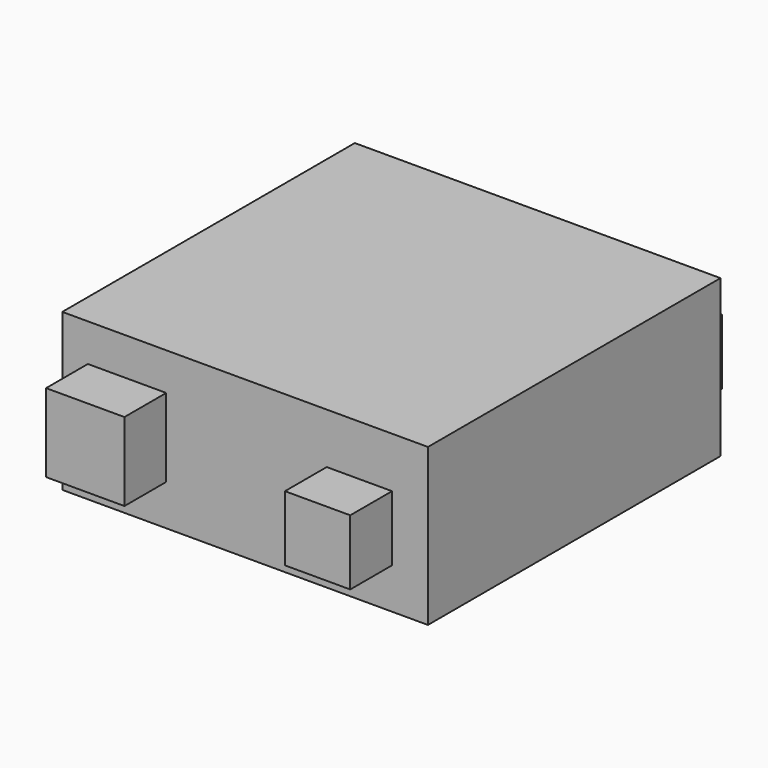
from build123d import *

# Parameters (mm, degrees)
F0_W     = 28
F0_H     = 28
F1_DEPTH = 24
F2_W     = 10
F2_H     = 10
F2_W_2   = 12
F2_H_2   = 12
F3_DEPTH = 8
F4_W     = 12
F4_H     = 12
F4_W_2   = 10
F4_H_2   = 10
F5_DEPTH = 8


with BuildPart() as f1:
    # F0 (on Top) → F1 (new body)
    with BuildSketch(Plane.XY):
        with Locations((-14, -14)):
            Rectangle(F0_W, F0_H)
        with Locations((14, -14)):
            Rectangle(F0_W, F0_H)
        with Locations((14, 14)):
            Rectangle(F0_W, F0_H)
        with Locations((-14, 14)):
            Rectangle(F0_W, F0_H)
    extrude(amount=F1_DEPTH)

    # F2 (on face) → F3 (join)
    with BuildSketch(Plane(origin=(0, 28, 0), x_dir=(-1, 0, 0), z_dir=(0, 1, 0))):
        with Locations((-16.822546, 8.821471)):
            Rectangle(F2_W, F2_H)
        with Locations((16.008998, 9.988178)):
            Rectangle(F2_W_2, F2_H_2)
    extrude(amount=F3_DEPTH)

    # F4 (on face) → F5 (join)
    with BuildSketch(Plane.XZ.offset(28)):
        with Locations((-18.081427, 12.249541)):
            Rectangle(F4_W, F4_H)
        with Locations((17.498491, 11.249541)):
            Rectangle(F4_W_2, F4_H_2)
    extrude(amount=F5_DEPTH)


solid = f1.part
